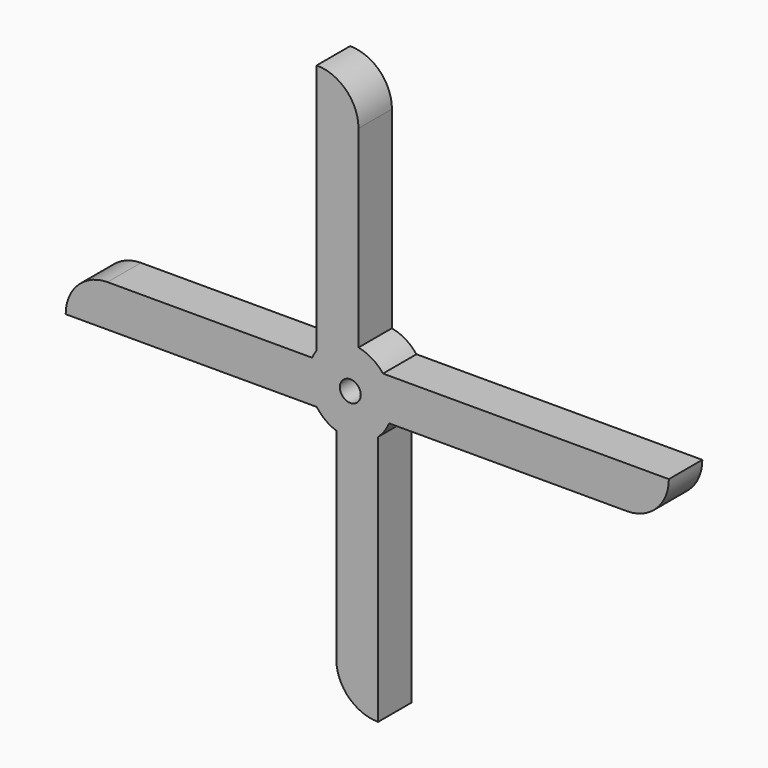
from build123d import *

# Parameters (mm, degrees)
F0_R     = 3.175
F1_DEPTH = 12.7


with BuildPart() as f1:
    # F0 (on Front) → F1 (new body)
    with BuildSketch(Plane.XZ):
        with BuildLine():
            ThreePointArc((-10.218609, 7.541222), (-4.583093, 11.844208), (2.480992, 12.455307))
            Line((2.480992, 12.455307), (2.480992, 71.040826))
            ThreePointArc((2.480992, 71.040826), (-1.203225, 79.985414), (-10.118324, 83.740427))
            Line((-10.118324, 83.740427), (-10.218609, 83.741222))
            Line((-10.218609, 83.741222), (-10.218609, 7.541222))
        make_face()
        with BuildLine():
            ThreePointArc((11.765986, -4.780333), (12.464309, -2.435363), (12.7, 0))
            ThreePointArc((12.7, 0), (11.987034, 4.195357), (9.928186, 7.919667))
            ThreePointArc((9.928186, 7.919667), (6.606053, 10.846662), (2.480992, 12.455307))
            ThreePointArc((2.480992, 12.455307), (-4.583093, 11.844208), (-10.218609, 7.541222))
            ThreePointArc((-10.218609, 7.541222), (-10.976661, 6.387715), (-11.605053, 5.158755))
            ThreePointArc((-11.605053, 5.158755), (-12.624991, -1.378257), (-10.218609, -7.541222))
            ThreePointArc((-10.218609, -7.541222), (-7.567888, -10.198876), (-4.256075, -11.96561))
            ThreePointArc((-4.256075, -11.96561), (2.427865, -12.465772), (8.435555, -9.493756))
            ThreePointArc((8.435555, -9.493756), (10.372061, -7.328734), (11.765986, -4.780333))
        make_face()
        Circle(F0_R, mode=Mode.SUBTRACT)
        with BuildLine():
            ThreePointArc((-10.218609, -7.541222), (-12.624991, -1.378257), (-11.605053, 5.158755))
            Line((-11.605053, 5.158755), (-73.718586, 5.158755))
            ThreePointArc((-73.718586, 5.158755), (-82.690264, 1.447581), (-86.418563, -7.516994))
            Line((-86.418563, -7.516994), (-86.418609, -7.541222))
            Line((-86.418609, -7.541222), (-10.218609, -7.541222))
        make_face()
        with BuildLine():
            Line((8.435555, -85.685075), (8.435555, -9.493756))
            ThreePointArc((8.435555, -9.493756), (2.427865, -12.465772), (-4.256075, -11.96561))
            Line((-4.256075, -11.96561), (-4.256075, -72.985077))
            ThreePointArc((-4.256075, -72.985077), (-0.53929, -81.962374), (8.435555, -85.685075))
        make_face()
        with BuildLine():
            ThreePointArc((9.928186, 7.919667), (11.987034, 4.195357), (12.7, 0))
            ThreePointArc((12.7, 0), (12.464309, -2.435363), (11.765986, -4.780333))
            Line((11.765986, -4.780333), (84.01884, -4.780333))
            ThreePointArc((84.01884, -4.780333), (92.999096, -1.060589), (96.71884, 7.919667))
            Line((96.71884, 7.919667), (9.928186, 7.919667))
        make_face()
    extrude(amount=F1_DEPTH)


solid = f1.part
